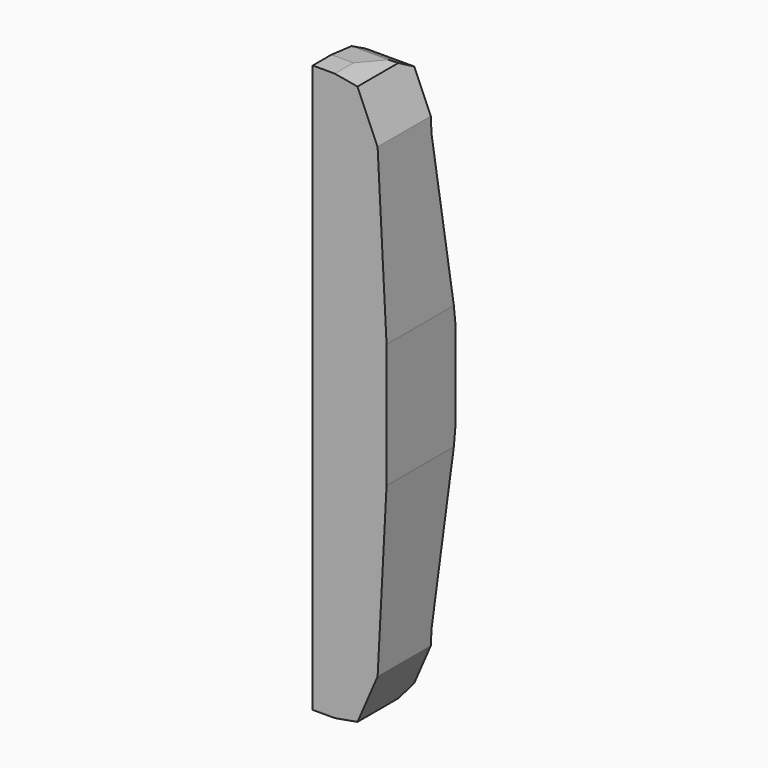
from build123d import *

# Parameters (mm, degrees)
F0_W     = 304.8
F0_H     = 355.6
F1_DEPTH = 952.5
F3_DEPTH = 355.601
F4_W     = 575.44121
F4_H     = 4171.496656
F5_DEPTH = 241.301
F7_DEPTH = 241.301
F9_DEPTH = 241.301


with BuildPart() as f1:
    # F0 (on Top) → F1 (new body, symmetric)
    with BuildSketch(Plane.XY):
        with Locations((6375.4, -1600.2)):
            Rectangle(F0_W, F0_H)
    extrude(amount=F1_DEPTH, both=True)

    # F2 (on face) → F3 (cut, through all)
    with BuildSketch(Plane.XZ.offset(1778)):
        Polygon((6369.221802, 914.017151), (6435.014533, 762), (6464.3, 203.2), (6464.3, 0), (6464.3, -203.2), (6435.014533, -762), (6369.221802, -914.017151), (6223, -939.8), (6223, -1333.5), (8458.2, -1333.5), (8458.2, 1333.5), (6223, 1333.5), (6223, 939.8), align=None)
    extrude(amount=-F3_DEPTH, mode=Mode.SUBTRACT)

    # F4 (on face) → F5 (cut, through all)
    with BuildSketch(Plane(origin=(6223, 0, 0), x_dir=(0, -1, 0), z_dir=(-1, 0, 0))):
        with Locations((2028.890605, 152.959056)):
            Rectangle(F4_W, F4_H)
    extrude(amount=-F5_DEPTH, mode=Mode.SUBTRACT)

    # F6 (on face) → F7 (cut, through all)
    with BuildSketch(Plane(origin=(6223, 0, 0), x_dir=(0, -1, 0), z_dir=(-1, 0, 0))):
        Polygon((1422.4, -939.8), (1422.4, 0), (1422.4, 939.8), (1524, 939.8), (1524, 1382.621926), (624.785322, 1382.621926), (624.785322, -1382.621926), (1524, -1382.621926), (1524, -939.8), align=None)
        Polygon((1460.5, -152.4), (1460.5, 0), (1422.4, 0), (1422.4, -939.8), (1524, -939.8), (1524, -711.2), align=None)
        Polygon((1422.4, 0), (1460.5, 0), (1460.5, 152.4), (1524, 711.2), (1524, 939.8), (1422.4, 939.8), align=None)
    extrude(amount=-F7_DEPTH, mode=Mode.SUBTRACT)

    # F8 (on face) → F9 (cut, through all)
    with BuildSketch(Plane(origin=(6223, 0, 0), x_dir=(0, -1, 0), z_dir=(-1, 0, 0))):
        Polygon((1753.895535, 1074.559246), (1407.100362, 1074.559246), (1407.100362, 825.20454), (1582.42, 918.423645), (1664.97, 927.1), (1753.895535, 927.1), align=None)
        Polygon((1753.895535, -1074.559246), (1753.895535, -927.1), (1664.97, -927.1), (1582.42, -918.423645), (1407.100362, -825.20454), (1407.100362, -1074.559246), align=None)
    extrude(amount=-F9_DEPTH, mode=Mode.SUBTRACT)


solid = f1.part
